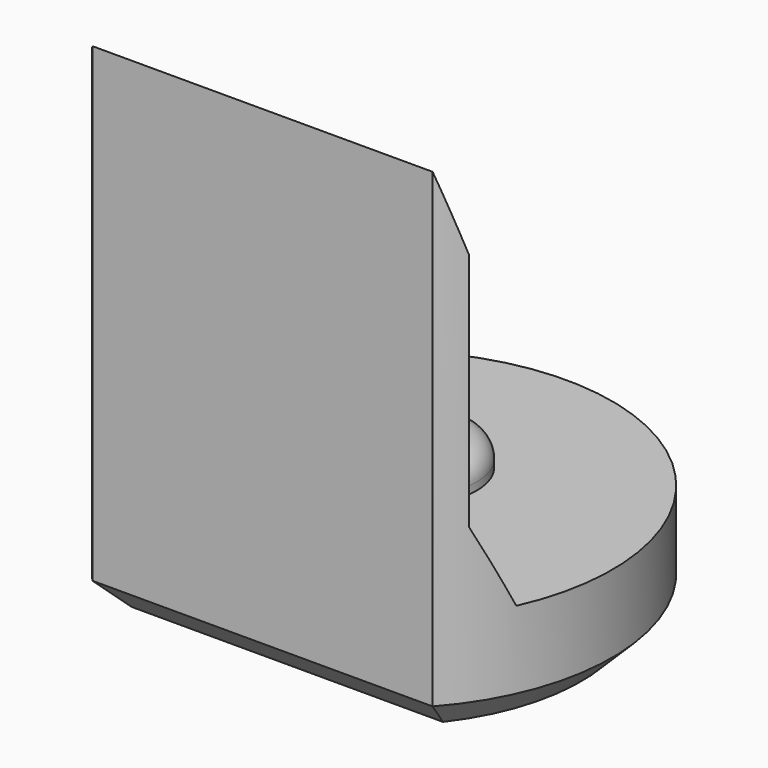
from build123d import *

# Parameters (mm, degrees)
PAD008_DEPTH         = 6.5
POCKET007_DEPTH      = 2.951
POCKET007_DEPTH_BACK = 2.951
SKETCH023_R          = 0.8
PAD009_DEPTH         = 0.4
FILLET001_R          = 0.3
CHAMFER007_SIZE      = 0.4


with BuildPart() as part:
    # Sketch022 → Pad008 (new body)
    with BuildSketch(Plane.XY):
        with BuildLine():
            ThreePointArc((2.2, -1.9653244007), (0, 2.95), (-2.2, -1.9653244007))
            Line((-2.2, -1.9653244007), (2.2, -1.9653244007))
        make_face()
    extrude(amount=PAD008_DEPTH)

    # Sketch024 → Pocket007 (cut, two sides)
    with BuildSketch(Plane.YZ) as pocket007_sk:
        Polygon((-1.97, 6.5), (-1.67, 5.5), (-1.67, 2.4), (-1.22, 1.4), (4, 1.4), (4, 6.5), align=None)
    extrude(amount=-POCKET007_DEPTH, mode=Mode.SUBTRACT)
    extrude(pocket007_sk.sketch, amount=POCKET007_DEPTH_BACK, mode=Mode.SUBTRACT)

    # Sketch023 (on Face7 of Pocket007) → Pad009 (join)
    with BuildSketch(Plane.XY.offset(1.4)):
        with Locations((0, 0.5)):
            Circle(SKETCH023_R)
    extrude(amount=PAD009_DEPTH)

    # Fillet001
    fillet001_edges = [part.edges().sort_by_distance(p)[0] for p in [
        (-0.8, 0.5, 1.8),
    ]]
    fillet(fillet001_edges, radius=FILLET001_R)

    # Chamfer007
    chamfer007_edges = [part.edges().sort_by_distance(p)[0] for p in [
        (0, 2.95, 0),
        (0, -1.965324, 0),
    ]]
    chamfer(chamfer007_edges, length=CHAMFER007_SIZE)


with BuildPart() as part_1:
    # Body083 placement: moved
    add(part.part.moved(Location((0, 18, 0))))


solid = part_1.part
